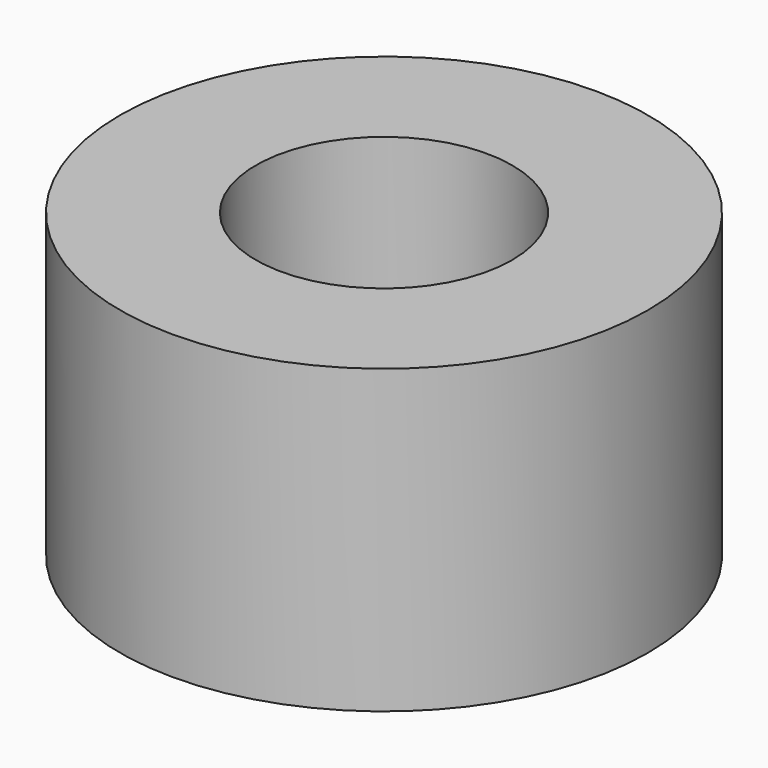
from build123d import *

# Parameters (mm, degrees)
CYLINDER025_R     = 1.7
CYLINDER025_DEPTH = 10
CYLINDER024_R     = 3.5
CYLINDER024_DEPTH = 4


with BuildPart() as cylinder025:
    # Cylinder025 → Cylinder025 (new body)
    with BuildSketch(Plane.XY):
        Circle(CYLINDER025_R)
    extrude(amount=CYLINDER025_DEPTH)


with BuildPart() as m3_washer:
    # Cylinder024 → Cylinder024 (new body)
    with BuildSketch(Plane.XY):
        Circle(CYLINDER024_R)
    extrude(amount=CYLINDER024_DEPTH)

    # Cut021: cut Cylinder025
    add(cylinder025.part, mode=Mode.SUBTRACT)


solid = m3_washer.part
